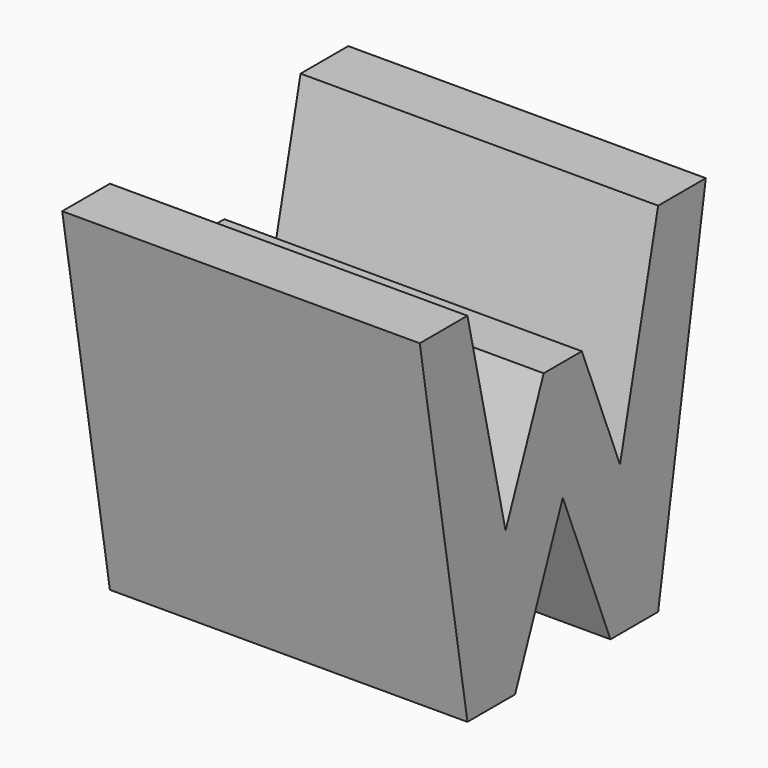
from build123d import *

# Parameters (mm, degrees)
F0_W     = 38.1
F0_H     = 38.1
F1_DEPTH = 38.1
F5_DEPTH = 38.1


with BuildPart() as f1:
    # F0 (on Front) → F1 (new body)
    with BuildSketch(Plane.XZ):
        with Locations((19.05, 19.05)):
            Rectangle(F0_W, F0_H)
    extrude(amount=F1_DEPTH)

    # F4 (on offset) → F5 (cut)
    with BuildSketch(Plane.YZ.offset(38.1)):
        Polygon((-25.4, 0), (-12.7, 0), (-19.05, 15.875), align=None)
        Polygon((-31.75, 0), (-38.1, 38.1), (-38.1, 0), align=None)
        Polygon((-11.43, 15.875), (-6.35, 38.1), (-31.75, 38.1), (-26.67, 15.875), (-21.59, 28.575), (-16.51, 28.575), align=None)
        Polygon((0, 0), (0, 38.1), (-6.35, 0), align=None)
    extrude(amount=-F5_DEPTH, mode=Mode.SUBTRACT)


solid = f1.part
